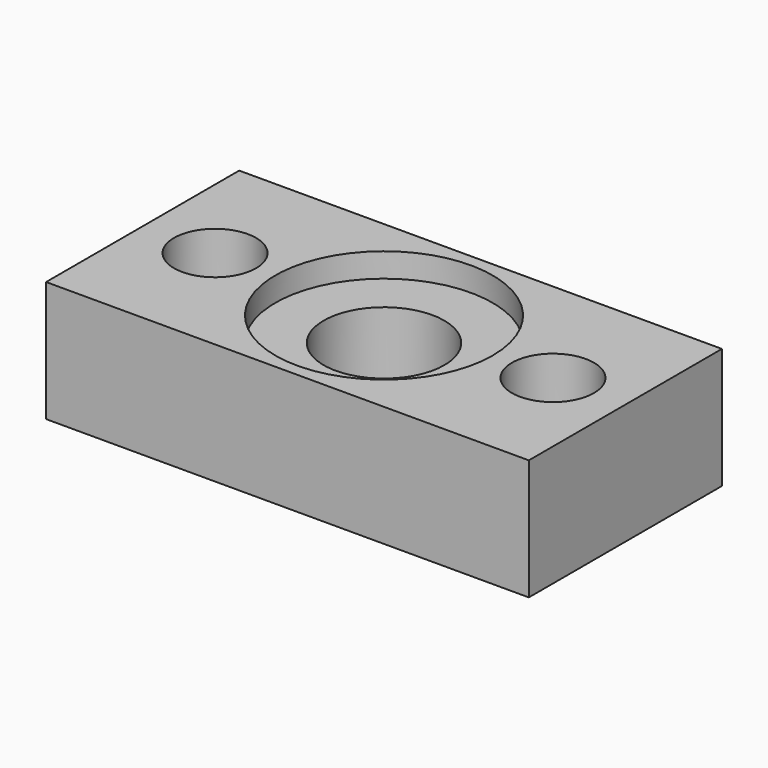
from build123d import *

# Parameters (mm, degrees)
CYLINDER065_R     = 1.7
CYLINDER065_DEPTH = 50
CYLINDER066_R     = 1.7
CYLINDER066_DEPTH = 50
CYLINDER063_R     = 2.5
CYLINDER063_DEPTH = 50
CYLINDER064_R     = 4.5
CYLINDER064_DEPTH = 4
BOX039_W          = 20
BOX039_H          = 10
BOX039_DEPTH      = 5


with BuildPart() as m3_studding006:
    # Cylinder065 → Cylinder065 (new body)
    with BuildSketch(Plane(origin=(68.5, 15, 2), x_dir=(1, 0, 0), z_dir=(0, 0, 1))):
        Circle(CYLINDER065_R)
    extrude(amount=CYLINDER065_DEPTH)


with BuildPart() as m3_clearance:
    # Cylinder066 → Cylinder066 (new body)
    with BuildSketch(Plane(origin=(54.5, 15, 2), x_dir=(1, 0, 0), z_dir=(0, 0, 1))):
        Circle(CYLINDER066_R)
    extrude(amount=CYLINDER066_DEPTH)

    # Fusion038: union m3-studding006
    add(m3_studding006.part)


with BuildPart() as nut_clearance:
    # Cylinder063 → Cylinder063 (new body)
    with BuildSketch(Plane(origin=(61.5, 15, 2), x_dir=(1, 0, 0), z_dir=(0, 0, 1))):
        Circle(CYLINDER063_R)
    extrude(amount=CYLINDER063_DEPTH)


with BuildPart() as bearing_nuts001:
    # Cylinder064 → Cylinder064 (new body)
    with BuildSketch(Plane(origin=(61.5, 15, 25), x_dir=(1, 0, 0), z_dir=(0, 0, 1))):
        Circle(CYLINDER064_R)
    extrude(amount=CYLINDER064_DEPTH)

    # Fusion037: union nut-clearance
    add(nut_clearance.part)


with BuildPart() as bearing_cover_b:
    # Box039 → Box039 (new body)
    with BuildSketch(Plane(origin=(51.5, 10, 21), x_dir=(1, 0, 0), z_dir=(0, 0, 1))):
        with Locations((10, 5)):
            Rectangle(BOX039_W, BOX039_H)
    extrude(amount=BOX039_DEPTH)

    # Cut025: cut bearing-nuts001
    add(bearing_nuts001.part, mode=Mode.SUBTRACT)

    # Cut026: cut M3-clearance
    add(m3_clearance.part, mode=Mode.SUBTRACT)


solid = bearing_cover_b.part
